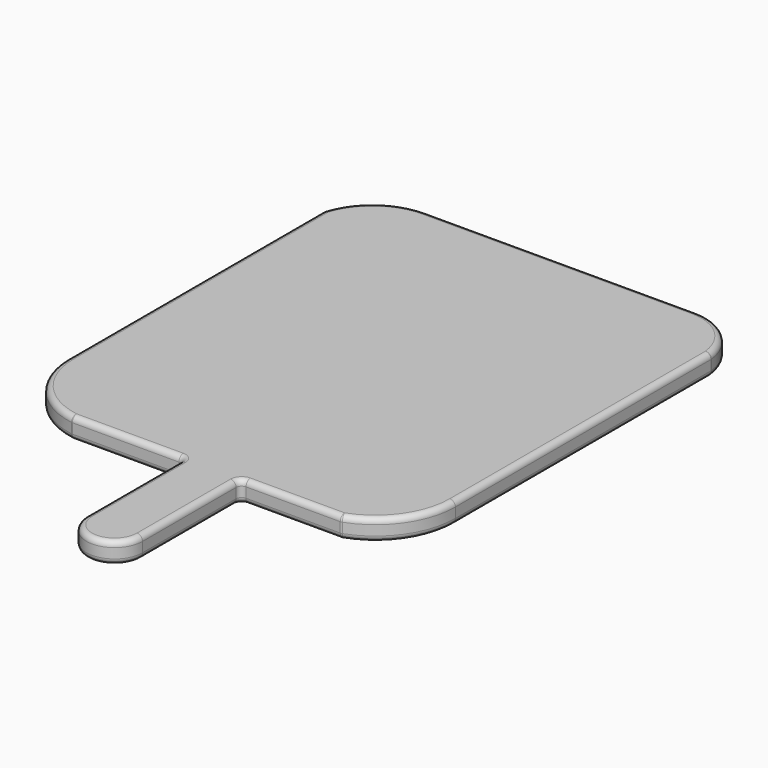
from build123d import *

# Parameters (mm, degrees)
F1_DEPTH = 19
F2_R     = 5


with BuildPart() as f1:
    # F0 (on Top) → F1 (new body)
    with BuildSketch(Plane.XY):
        with BuildLine():
            Line((141.696946, 265.05909), (-101.57174, 265.05909))
            ThreePointArc((-101.57174, 265.05909), (-137.980527, 253.051325), (-160.102467, 221.73989))
            Line((-160.102467, 221.73989), (-160.102467, -66.769655))
            ThreePointArc((-160.102467, -66.769655), (-143.462282, -111.695054), (-101.57174, -134.94091))
            Line((-101.57174, -134.94091), (0, -134.94091))
            Line((0, -134.94091), (0, -245.450066))
            ThreePointArc((0, -245.450066), (25.285058, -270.735123), (50.570116, -245.450066))
            Line((50.570116, -245.450066), (50.570116, -134.94091))
            Line((50.570116, -134.94091), (141.409377, -134.94091))
            ThreePointArc((141.409377, -134.94091), (176.539135, -108.597939), (189.897533, -66.769655))
            Line((189.897533, -66.769655), (189.897533, 221.73989))
            ThreePointArc((189.897533, 221.73989), (174.100069, 252.637917), (141.696946, 265.05909))
        make_face()
    extrude(amount=F1_DEPTH)

    # F2
    f2_edges = [f1.edges().sort_by_distance(p)[0] for p in [
        (-160.102467, 221.73989, 9.5),
        (-160.102467, -66.769655, 9.5),
        (-160.102467, 77.485118, 0),
        (-160.102467, 77.485118, 19),
        (-101.57174, -134.94091, 9.5),
        (-143.462282, -111.695054, 0),
        (-143.462282, -111.695054, 19),
        (-50.78587, -134.94091, 19),
        (-50.78587, -134.94091, 0),
        (0, -134.94091, 9.5),
        (0, -245.450066, 9.5),
        (0, -190.195488, 0),
        (0, -190.195488, 19),
        (50.570116, -134.94091, 9.5),
        (141.409377, -134.94091, 9.5),
        (95.989746, -134.94091, 0),
        (95.989746, -134.94091, 19),
        (189.897533, -66.769655, 9.5),
        (176.539135, -108.597939, 0),
        (176.539135, -108.597939, 19),
        (189.897533, 221.73989, 9.5),
        (141.696946, 265.05909, 9.5),
        (174.100069, 252.637917, 0),
        (174.100069, 252.637917, 19),
    ]]
    fillet(f2_edges, radius=F2_R)


solid = f1.part
